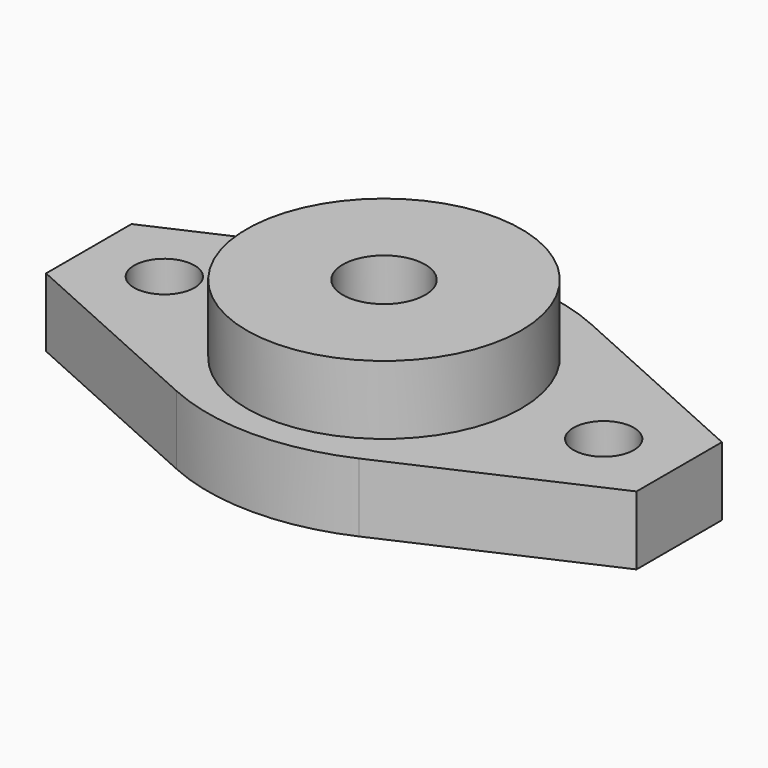
from build123d import *

# Parameters (mm, degrees)
PAD050_DEPTH = 5
SKETCH054_R  = 10
PAD051_DEPTH = 5
SKETCH055_R  = 2.2
HOLE_DEPTH   = 25
SKETCH056_R  = 3
POCKET_DEPTH = 10.001


with BuildPart() as part:
    # Sketch053 → Pad050 (new body)
    with BuildSketch(Plane.XY):
        with BuildLine():
            Line((-21.5, 3.888093), (-21.5, -3.888093))
            Line((-21.5, -3.888093), (-6.644741, -10.57367))
            ThreePointArc((-6.644741, -10.57367), (0, -12), (6.644741, -10.57367))
            Line((6.644741, -10.57367), (21.5, -3.888093))
            Line((21.5, -3.888093), (21.5, 3.888093))
            Line((21.5, 3.888093), (6.644741, 10.57367))
            ThreePointArc((6.644741, 10.57367), (0, 12), (-6.644741, 10.57367))
            Line((-6.644741, 10.57367), (-21.5, 3.888093))
        make_face()
    extrude(amount=PAD050_DEPTH)

    # Sketch054 (on Face10 of Pad050) → Pad051 (join)
    with BuildSketch(Plane.XY.offset(5)):
        Circle(SKETCH054_R)
    extrude(amount=PAD051_DEPTH)

    # Sketch055 (on Face10 of Pad050) → Hole (cut)
    with BuildSketch(Plane.XY.offset(5)):
        with Locations((-16, 0)):
            Circle(SKETCH055_R)
        with Locations((16, 0)):
            Circle(SKETCH055_R)
    extrude(amount=-HOLE_DEPTH, mode=Mode.SUBTRACT)

    # Sketch056 (on Face14 of Hole) → Pocket (cut, through all)
    with BuildSketch(Plane.XY.offset(10)):
        Circle(SKETCH056_R)
    extrude(amount=-POCKET_DEPTH, mode=Mode.SUBTRACT)


solid = part.part
